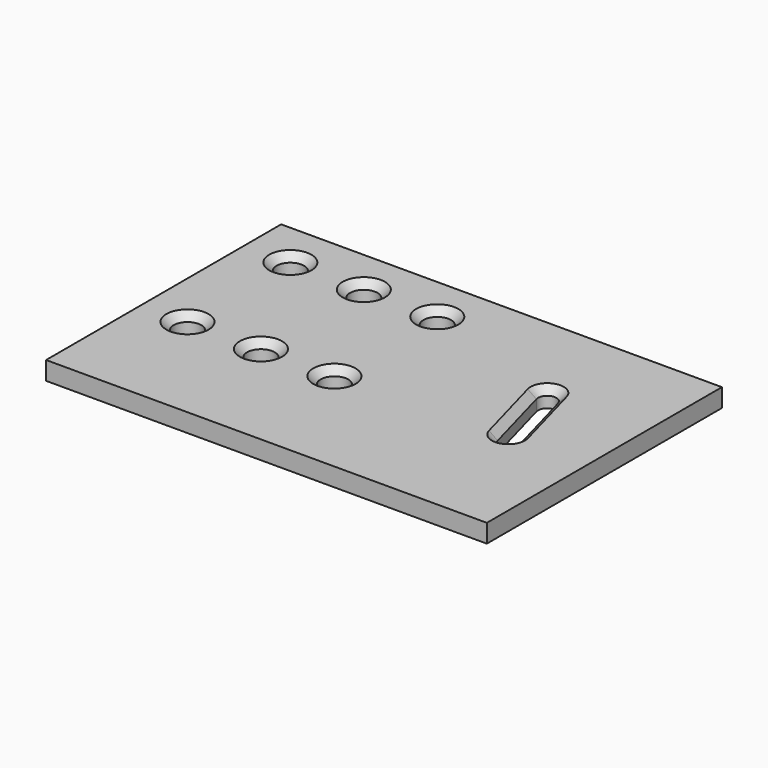
from build123d import *

# Parameters (mm, degrees)
F0_W     = 152.4
F0_H     = 101.6
F0_R     = 4.7625
F2_DEPTH = 6.35
F3_DEPTH = 25.4
F4_SIZE  = 2.54


with BuildPart() as f2:
    # F0 (on Top) → F2 (new body)
    with BuildSketch(Plane.XY):
        Rectangle(F0_W, F0_H)
        with Locations((-60.325, -9.525)):
            Circle(F0_R, mode=Mode.SUBTRACT)
        with Locations((-34.925, -9.525)):
            Circle(F0_R, mode=Mode.SUBTRACT)
        with Locations((-9.525, -9.525)):
            Circle(F0_R, mode=Mode.SUBTRACT)
        with Locations((-60.325, 34.925)):
            Circle(F0_R, mode=Mode.SUBTRACT)
        with Locations((-34.925, 34.925)):
            Circle(F0_R, mode=Mode.SUBTRACT)
        with Locations((-9.525, 34.925)):
            Circle(F0_R, mode=Mode.SUBTRACT)
    extrude(amount=-F2_DEPTH)

    # F1 (on face) → F3 (cut)
    with BuildSketch(Plane.XY):
        with BuildLine():
            Line((51.546737, -5.978524), (44.529635, 19.542772))
            ThreePointArc((44.529635, 19.542772), (40.626513, 21.762431), (38.406854, 17.859308))
            Line((38.406854, 17.859308), (45.423956, -7.661988))
            ThreePointArc((45.423956, -7.661988), (49.327078, -9.881647), (51.546737, -5.978524))
        make_face()
    extrude(amount=-F3_DEPTH, mode=Mode.SUBTRACT)

    # F4
    f4_edges = [f2.edges().sort_by_distance(p)[0] for p in [
        (-65.0875, 34.925, 0),
        (-39.6875, 34.925, 0),
        (-14.2875, 34.925, 0),
        (-14.2875, -9.525, 0),
        (-39.6875, -9.525, 0),
        (-65.0875, -9.525, 0),
        (41.915405, 5.09866, 0),
    ]]
    chamfer(f4_edges, length=F4_SIZE)


solid = f2.part
